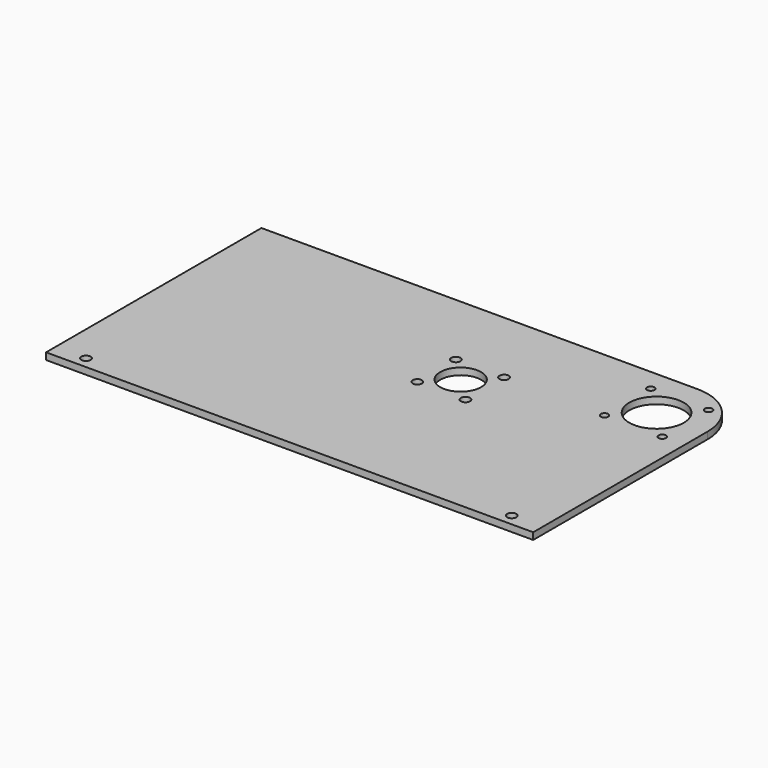
from build123d import *

# Parameters (mm, degrees)
F0_W     = 226.934583
F0_H     = 125.4125
F0_R     = 2.15265
F0_R_2   = 9.525
F0_R_3   = 1.7272
F0_R_4   = 12.7
F1_DEPTH = 3.175
F2_R     = 23.8125


with BuildPart() as f1:
    # F0 (on Top) → F1 (new body)
    with BuildSketch(Plane.XY):
        with Locations((-113.467292, -62.70625)):
            Rectangle(F0_W, F0_H)
        with Locations((-212.647083, -120.015)):
            Circle(F0_R, mode=Mode.SUBTRACT)
        with Locations((-14.2875, -120.015)):
            Circle(F0_R, mode=Mode.SUBTRACT)
        with Locations((-106.960737, -59.198979)):
            Circle(F0_R, mode=Mode.SUBTRACT)
        with Locations((-95.735416, -47.973659)):
            Circle(F0_R_2, mode=Mode.SUBTRACT)
        with Locations((-84.510096, -59.198979)):
            Circle(F0_R, mode=Mode.SUBTRACT)
        with Locations((-106.960737, -36.748339)):
            Circle(F0_R, mode=Mode.SUBTRACT)
        with Locations((-84.510096, -36.748339)):
            Circle(F0_R, mode=Mode.SUBTRACT)
        with Locations((-37.282884, -37.282884)):
            Circle(F0_R_3, mode=Mode.SUBTRACT)
        with Locations((-10.342116, -37.282884)):
            Circle(F0_R_3, mode=Mode.SUBTRACT)
        with Locations((-23.8125, -23.8125)):
            Circle(F0_R_4, mode=Mode.SUBTRACT)
        with Locations((-37.282884, -10.342116)):
            Circle(F0_R_3, mode=Mode.SUBTRACT)
        with Locations((-10.342116, -10.342116)):
            Circle(F0_R_3, mode=Mode.SUBTRACT)
    extrude(amount=F1_DEPTH)

    # F2
    f2_edges = [f1.edges().sort_by_distance(p)[0] for p in [
        (0, 0, 1.5875),
    ]]
    fillet(f2_edges, radius=F2_R)


solid = f1.part
